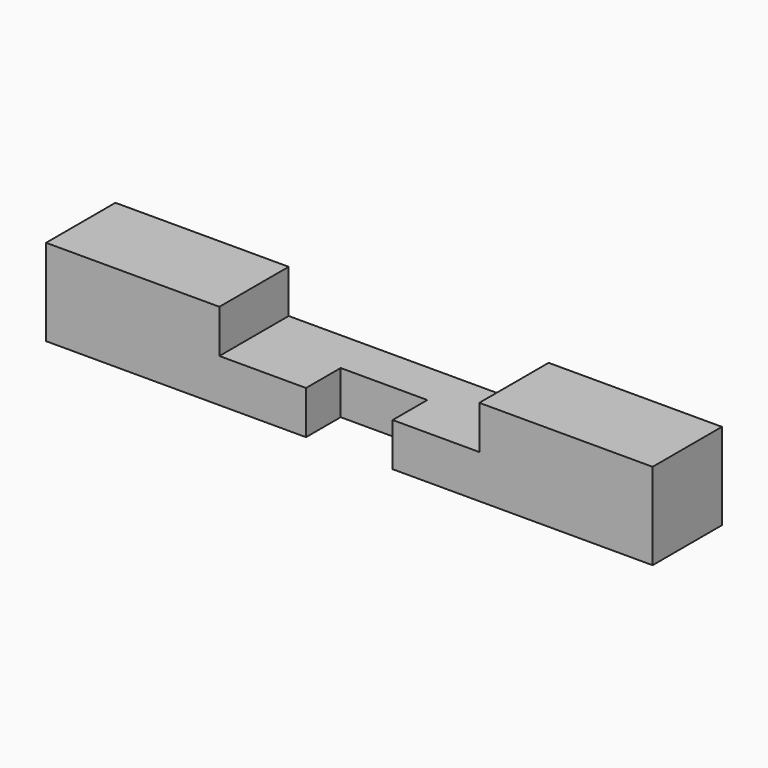
from build123d import *

# Parameters (mm, degrees)
F0_W     = 17.5
F0_H     = 5
F1_DEPTH = 2.5
F2_W     = 7.5
F2_H     = 5
F3_DEPTH = 2.5
F4_W     = 2.5
F4_H     = 2.5
F5_DEPTH = 2.5


with BuildPart() as f1:
    # F0 (on Top) → F1 (new body, symmetric)
    with BuildSketch(Plane.XY):
        with Locations((8.75, 2.5)):
            Rectangle(F0_W, F0_H)
        with Locations((-8.75, 2.5)):
            Rectangle(F0_W, F0_H)
    extrude(amount=F1_DEPTH, both=True)

    # F2 (on Top) → F3 (cut)
    with BuildSketch(Plane.XY):
        with Locations((3.75, 2.5)):
            Rectangle(F2_W, F2_H)
        with Locations((-3.75, 2.5)):
            Rectangle(F2_W, F2_H)
    extrude(amount=F3_DEPTH, mode=Mode.SUBTRACT)

    # F4 (on Right) → F5 (cut, symmetric)
    with BuildSketch(Plane.YZ):
        with Locations((1.25, -1.25)):
            Rectangle(F4_W, F4_H)
    extrude(amount=F5_DEPTH, both=True, mode=Mode.SUBTRACT)


solid = f1.part
